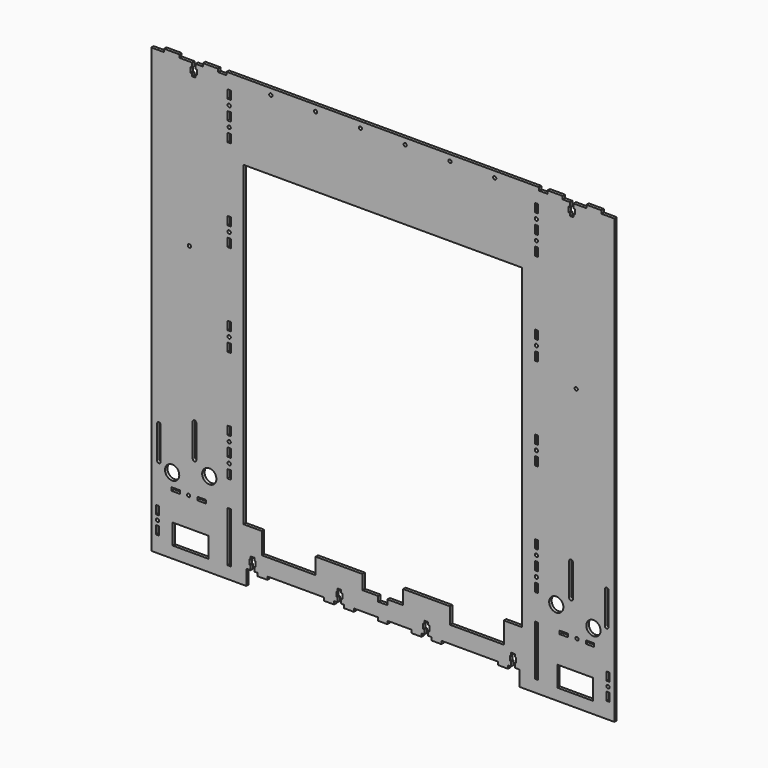
from build123d import *

# Parameters (mm, degrees)
F0_W     = 3.2
F0_H     = 8.2
F0_W_2   = 35
F0_H_2   = 20
F0_R     = 1.6
F0_H_3   = 49.7
F0_W_3   = 8.2
F0_H_4   = 3.2
F0_R_2   = 7
F1_DEPTH = 3


with BuildPart() as f1:
    # F0 (on Front) → F1 (new body)
    with BuildSketch(Plane.XZ):
        Polygon((0, 435.5), (0, 0), (93.35, 0), (93.35, 15), (97.75, 15), (97.75, 19.3), (96.5, 19.3), (96.5, 24.3), (97.75, 24.3), (97.75, 27), (101.25, 27), (101.25, 24.3), (102.5, 24.3), (102.5, 19.3), (101.25, 19.3), (101.25, 15), (104.35, 15), (104.35, 12), (114.15, 12), (114.15, 15), (169.85, 15), (169.85, 12), (179.65, 12), (179.65, 15), (183.05, 15), (183.05, 19.3), (181.8, 19.3), (181.8, 24.3), (183.05, 24.3), (183.05, 27), (186.55, 27), (186.55, 24.3), (187.8, 24.3), (187.8, 19.3), (186.55, 19.3), (186.55, 15), (189.35, 15), (189.35, 12), (199.15, 12), (199.15, 15), (223, 15), (223, 12), (227.5, 12), (232, 12), (232, 15), (255.85, 15), (255.85, 12), (265.65, 12), (265.65, 15), (268.45, 15), (268.45, 19.3), (267.2, 19.3), (267.2, 24.3), (268.45, 24.3), (268.45, 27), (271.95, 27), (271.95, 24.3), (273.2, 24.3), (273.2, 19.3), (271.95, 19.3), (271.95, 15), (275.35, 15), (275.35, 12), (285.15, 12), (285.15, 15), (340.85, 15), (340.85, 12), (350.65, 12), (350.65, 15), (353.75, 15), (353.75, 19.3), (352.5, 19.3), (352.5, 24.3), (353.75, 24.3), (353.75, 27), (357.25, 27), (357.25, 24.3), (358.5, 24.3), (358.5, 19.3), (357.25, 19.3), (357.25, 15), (361.65, 15), (361.65, 0), (455, 0), (455, 435.5), (442.5, 435.5), (442.5, 438.5), (427.5, 438.5), (427.5, 435.5), (415, 435.5), (415, 431.2), (416.25, 431.2), (416.25, 426.2), (415, 426.2), (415, 423.5), (411.5, 423.5), (411.5, 426.2), (410.25, 426.2), (410.25, 431.2), (411.5, 431.2), (411.5, 435.5), (404.3, 435.5), (404.3, 438.5), (389.3, 438.5), (389.3, 435.5), (381.1, 435.5), (381.1, 438.5), (227.5, 438.5), (73.9, 438.5), (73.9, 435.5), (65.7, 435.5), (65.7, 438.5), (50.7, 438.5), (50.7, 435.5), (43.5, 435.5), (43.5, 431.2), (44.75, 431.2), (44.75, 426.2), (43.5, 426.2), (43.5, 423.5), (40, 423.5), (40, 426.2), (38.75, 426.2), (38.75, 431.2), (40, 431.2), (40, 435.5), (27.5, 435.5), (27.5, 438.5), (12.5, 438.5), (12.5, 435.5), align=None)
        with Locations((6.1, 19.8)):
            Rectangle(F0_W, F0_H, mode=Mode.SUBTRACT)
        with Locations((38.5, 21.4)):
            Rectangle(F0_W_2, F0_H_2, mode=Mode.SUBTRACT)
        with Locations((6.1, 28.5)):
            Circle(F0_R, mode=Mode.SUBTRACT)
        with Locations((6.1, 37.2)):
            Rectangle(F0_W, F0_H, mode=Mode.SUBTRACT)
        with Locations((76.55, 36.75)):
            Rectangle(F0_W, F0_H_3, mode=Mode.SUBTRACT)
        with Locations((23.9, 60)):
            Rectangle(F0_W_3, F0_H_4, mode=Mode.SUBTRACT)
        with Locations((20.5, 74.5)):
            Circle(F0_R_2, mode=Mode.SUBTRACT)
        with Locations((36.7, 60)):
            Circle(F0_R, mode=Mode.SUBTRACT)
        with Locations((49.5, 60)):
            Rectangle(F0_W_3, F0_H_4, mode=Mode.SUBTRACT)
        with BuildLine():
            Line((5.7, 80), (5.7, 112))
            ThreePointArc((5.7, 112), (7.5, 113.8), (9.3, 112))
            Line((9.3, 112), (9.3, 80))
            ThreePointArc((9.3, 80), (7.5, 78.2), (5.7, 80))
        make_face(mode=Mode.SUBTRACT)
        with BuildLine():
            Line((40.7, 93), (40.7, 125))
            ThreePointArc((40.7, 125), (42.5, 126.8), (44.3, 125))
            Line((44.3, 125), (44.3, 93))
            ThreePointArc((44.3, 93), (42.5, 91.2), (40.7, 93))
        make_face(mode=Mode.SUBTRACT)
        with Locations((57, 83)):
            Circle(F0_R_2, mode=Mode.SUBTRACT)
        with Locations((76.55, 91.1)):
            Rectangle(F0_W, F0_H, mode=Mode.SUBTRACT)
        with Locations((76.55, 100.5)):
            Circle(F0_R, mode=Mode.SUBTRACT)
        with Locations((76.55, 109.9)):
            Rectangle(F0_W, F0_H, mode=Mode.SUBTRACT)
        with Locations((76.55, 119.3)):
            Circle(F0_R, mode=Mode.SUBTRACT)
        with Locations((76.55, 128.7)):
            Rectangle(F0_W, F0_H, mode=Mode.SUBTRACT)
        with Locations((76.55, 200.6)):
            Rectangle(F0_W, F0_H, mode=Mode.SUBTRACT)
        with Locations((76.55, 210)):
            Circle(F0_R, mode=Mode.SUBTRACT)
        with Locations((378.45, 36.75)):
            Rectangle(F0_W, F0_H_3, mode=Mode.SUBTRACT)
        with Locations((416.5, 21.4)):
            Rectangle(F0_W_2, F0_H_2, mode=Mode.SUBTRACT)
        with Locations((448.9, 19.8)):
            Rectangle(F0_W, F0_H, mode=Mode.SUBTRACT)
        with Locations((448.9, 28.5)):
            Circle(F0_R, mode=Mode.SUBTRACT)
        with Locations((448.9, 37.2)):
            Rectangle(F0_W, F0_H, mode=Mode.SUBTRACT)
        with Locations((378.45, 91.1)):
            Rectangle(F0_W, F0_H, mode=Mode.SUBTRACT)
        with Locations((398, 83)):
            Circle(F0_R_2, mode=Mode.SUBTRACT)
        with Locations((378.45, 100.5)):
            Circle(F0_R, mode=Mode.SUBTRACT)
        with Locations((405.5, 60)):
            Rectangle(F0_W_3, F0_H_4, mode=Mode.SUBTRACT)
        with Locations((418.3, 60)):
            Circle(F0_R, mode=Mode.SUBTRACT)
        with Locations((431.1, 60)):
            Rectangle(F0_W_3, F0_H_4, mode=Mode.SUBTRACT)
        with Locations((434.5, 74.5)):
            Circle(F0_R_2, mode=Mode.SUBTRACT)
        with BuildLine():
            Line((414.3, 125), (414.3, 93))
            ThreePointArc((414.3, 93), (412.5, 91.2), (410.7, 93))
            Line((410.7, 93), (410.7, 125))
            ThreePointArc((410.7, 125), (412.5, 126.8), (414.3, 125))
        make_face(mode=Mode.SUBTRACT)
        with BuildLine():
            Line((445.7, 80), (445.7, 112))
            ThreePointArc((445.7, 112), (447.5, 113.8), (449.3, 112))
            Line((449.3, 112), (449.3, 80))
            ThreePointArc((449.3, 80), (447.5, 78.2), (445.7, 80))
        make_face(mode=Mode.SUBTRACT)
        Polygon((232, 28.5), (227.5, 28.5), (223, 28.5), (223, 33.5), (207.5, 33.5), (207.5, 47.5), (161.5, 47.5), (161.5, 31.5), (108.6, 31.5), (108.6, 52.5), (90.5, 52.5), (90.5, 363.5), (227.5, 363.5), (364.5, 363.5), (364.5, 52.5), (346.4, 52.5), (346.4, 31.5), (293.5, 31.5), (293.5, 47.5), (247.5, 47.5), (247.5, 33.5), (232, 33.5), align=None, mode=Mode.SUBTRACT)
        with Locations((378.45, 109.9)):
            Rectangle(F0_W, F0_H, mode=Mode.SUBTRACT)
        with Locations((378.45, 119.3)):
            Circle(F0_R, mode=Mode.SUBTRACT)
        with Locations((378.45, 128.7)):
            Rectangle(F0_W, F0_H, mode=Mode.SUBTRACT)
        with Locations((378.45, 200.6)):
            Rectangle(F0_W, F0_H, mode=Mode.SUBTRACT)
        with Locations((378.45, 210)):
            Circle(F0_R, mode=Mode.SUBTRACT)
        with Locations((76.55, 219.4)):
            Rectangle(F0_W, F0_H, mode=Mode.SUBTRACT)
        with Locations((37.45, 276)):
            Circle(F0_R, mode=Mode.SUBTRACT)
        with Locations((76.55, 291.3)):
            Rectangle(F0_W, F0_H, mode=Mode.SUBTRACT)
        with Locations((76.55, 300.7)):
            Circle(F0_R, mode=Mode.SUBTRACT)
        with Locations((76.55, 310.1)):
            Rectangle(F0_W, F0_H, mode=Mode.SUBTRACT)
        with Locations((76.55, 382)):
            Rectangle(F0_W, F0_H, mode=Mode.SUBTRACT)
        with Locations((76.55, 391.4)):
            Circle(F0_R, mode=Mode.SUBTRACT)
        with Locations((76.55, 400.8)):
            Rectangle(F0_W, F0_H, mode=Mode.SUBTRACT)
        with Locations((76.55, 410.2)):
            Circle(F0_R, mode=Mode.SUBTRACT)
        with Locations((76.55, 419.6)):
            Rectangle(F0_W, F0_H, mode=Mode.SUBTRACT)
        with Locations((117.5, 432.5)):
            Circle(F0_R, mode=Mode.SUBTRACT)
        with Locations((161.5, 432.5)):
            Circle(F0_R, mode=Mode.SUBTRACT)
        with Locations((205.5, 432.5)):
            Circle(F0_R, mode=Mode.SUBTRACT)
        with Locations((378.45, 219.4)):
            Rectangle(F0_W, F0_H, mode=Mode.SUBTRACT)
        with Locations((378.45, 291.3)):
            Rectangle(F0_W, F0_H, mode=Mode.SUBTRACT)
        with Locations((378.45, 300.7)):
            Circle(F0_R, mode=Mode.SUBTRACT)
        with Locations((378.45, 310.1)):
            Rectangle(F0_W, F0_H, mode=Mode.SUBTRACT)
        with Locations((417.55, 276)):
            Circle(F0_R, mode=Mode.SUBTRACT)
        with Locations((249.5, 432.5)):
            Circle(F0_R, mode=Mode.SUBTRACT)
        with Locations((293.5, 432.5)):
            Circle(F0_R, mode=Mode.SUBTRACT)
        with Locations((337.5, 432.5)):
            Circle(F0_R, mode=Mode.SUBTRACT)
        with Locations((378.45, 382)):
            Rectangle(F0_W, F0_H, mode=Mode.SUBTRACT)
        with Locations((378.45, 391.4)):
            Circle(F0_R, mode=Mode.SUBTRACT)
        with Locations((378.45, 400.8)):
            Rectangle(F0_W, F0_H, mode=Mode.SUBTRACT)
        with Locations((378.45, 410.2)):
            Circle(F0_R, mode=Mode.SUBTRACT)
        with Locations((378.45, 419.6)):
            Rectangle(F0_W, F0_H, mode=Mode.SUBTRACT)
    extrude(amount=F1_DEPTH)


solid = f1.part
